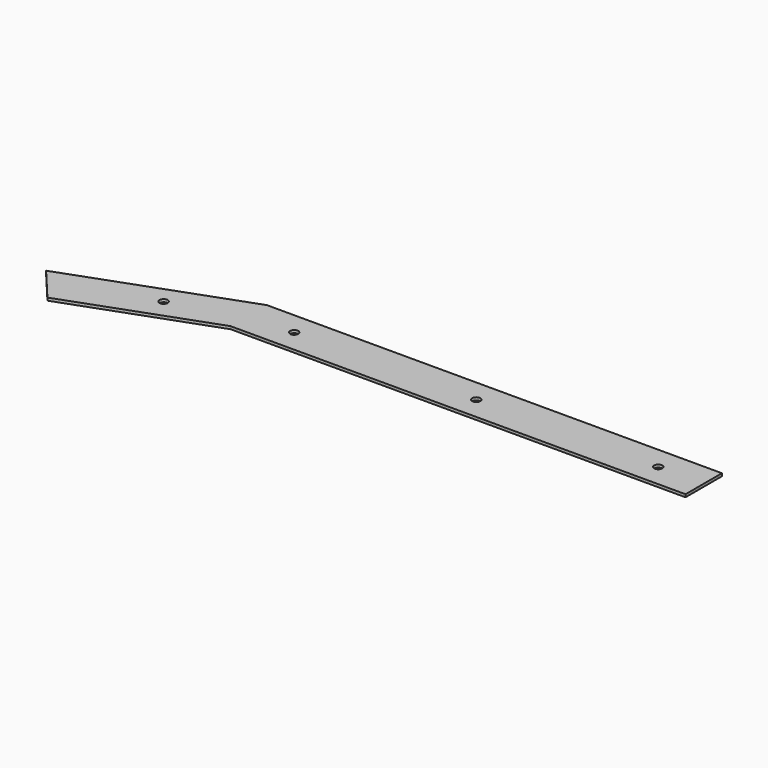
from build123d import *

# Parameters (mm, degrees)
SKETCH_R  = 4.5
PAD_DEPTH = 3


with BuildPart() as part:
    # Sketch → Pad (new body)
    with BuildSketch(Plane.XY):
        Polygon((0, 50), (-500, 50), (-687.938524, -18.404029), (-655.799216, -56.706311), (-499.999906, 0), (0, 0), align=None)
        with Locations((-50, 25)):
            Circle(SKETCH_R, mode=Mode.SUBTRACT)
        with Locations((-250, 25)):
            Circle(SKETCH_R, mode=Mode.SUBTRACT)
        with Locations((-449.999906, 25)):
            Circle(SKETCH_R, mode=Mode.SUBTRACT)
        with Locations((-573.364373, -0.098038)):
            Circle(SKETCH_R, mode=Mode.SUBTRACT)
    extrude(amount=PAD_DEPTH)


solid = part.part
